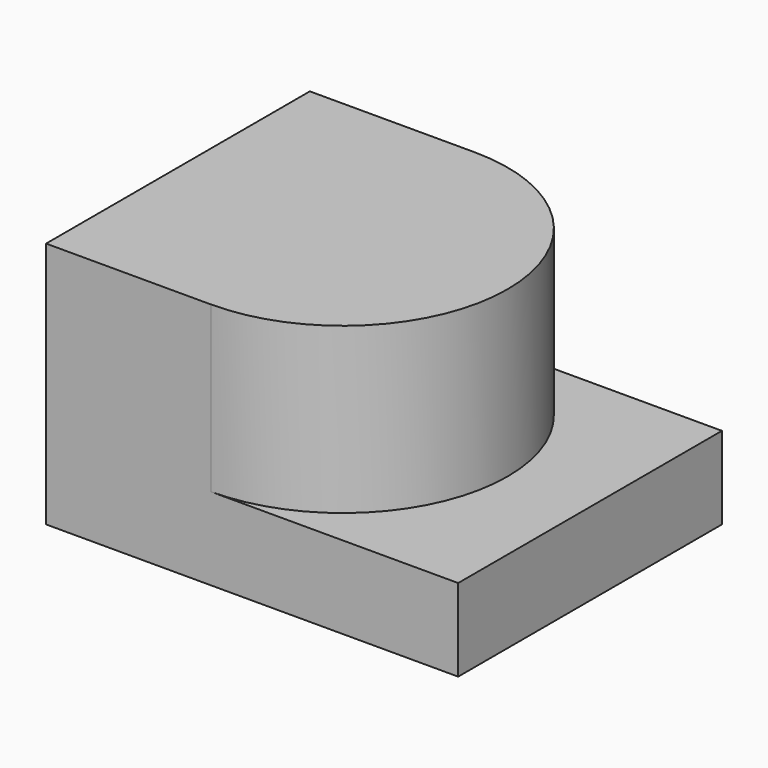
from build123d import *

# Parameters (mm, degrees)
F0_W     = 5
F0_H     = 4
F1_DEPTH = 1
F3_DEPTH = 2


with BuildPart() as f1:
    # F0 (on Top) → F1 (new body)
    with BuildSketch(Plane.XY):
        with Locations((2.5, 2)):
            Rectangle(F0_W, F0_H)
    extrude(amount=F1_DEPTH)

    # F2 (on face) → F3 (join)
    with BuildSketch(Plane.XY.offset(1)):
        with BuildLine():
            ThreePointArc((2, 0), (4, 2), (2, 4))
            Line((2, 4), (0, 4))
            Line((0, 4), (0, 0))
            Line((0, 0), (2, 0))
        make_face()
    extrude(amount=F3_DEPTH)


solid = f1.part
